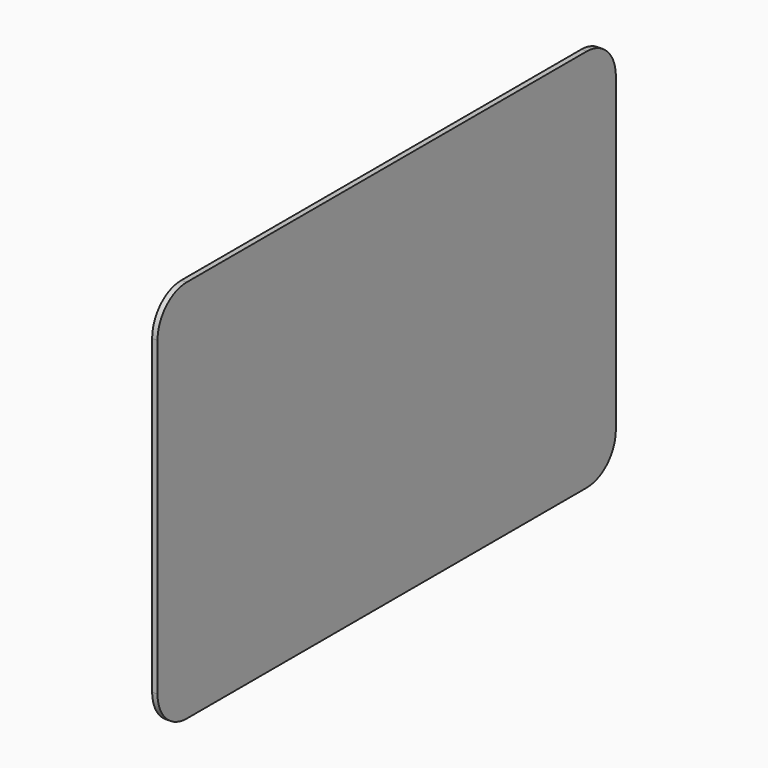
from build123d import *

# Parameters (mm, degrees)
PAD_DEPTH = 4


with BuildPart() as part:
    # Sketch → Pad (new body)
    with BuildSketch(Plane.YZ):
        with BuildLine():
            Line((-212.5, 115.5), (-212.5, -115.5))
            ThreePointArc((-212.5, -115.5), (-204.591883, -134.591883), (-185.5, -142.5))
            Line((-185.5, -142.5), (185.5, -142.5))
            ThreePointArc((185.5, -142.5), (204.591883, -134.591883), (212.5, -115.5))
            Line((212.5, -115.5), (212.5, 115.5))
            ThreePointArc((212.5, 115.5), (204.591883, 134.591883), (185.5, 142.5))
            Line((185.5, 142.5), (-185.5, 142.5))
            ThreePointArc((-185.5, 142.5), (-204.591883, 134.591883), (-212.5, 115.5))
        make_face()
    extrude(amount=PAD_DEPTH)


solid = part.part
